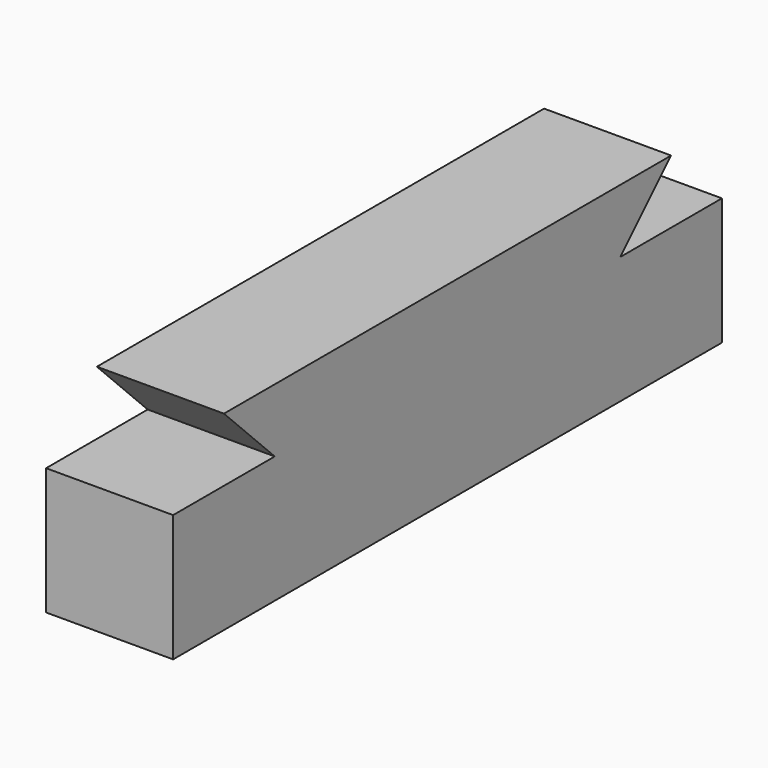
from build123d import *

# Parameters (mm, degrees)
F0_W     = 6.35
F0_H     = 34.29
F1_DEPTH = 9.525
F3_DEPTH = 6.351


with BuildPart() as f1:
    # F0 (on Top) → F1 (new body)
    with BuildSketch(Plane.XY):
        Rectangle(F0_W, F0_H)
    extrude(amount=F1_DEPTH)

    # F2 (on face) → F3 (cut, through all)
    with BuildSketch(Plane(origin=(-3.175, 0, 0), x_dir=(0, -1, 0), z_dir=(-1, 0, 0))):
        Polygon((-17.145, 9.525), (-17.145, 6.35), (-10.795, 6.35), (-13.97, 9.525), align=None)
        Polygon((17.145, 9.525), (13.97, 9.525), (10.795, 6.35), (17.145, 6.35), align=None)
    extrude(amount=-F3_DEPTH, mode=Mode.SUBTRACT)


solid = f1.part
